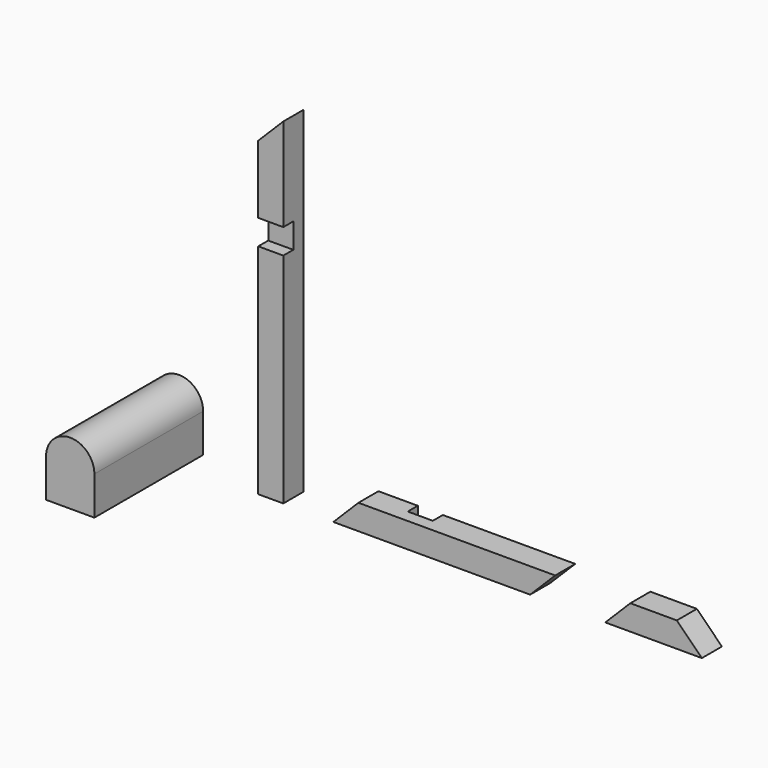
from build123d import *

# Parameters (mm, degrees)
F1_DEPTH  = 482.6
F3_DEPTH  = 88.9
F4_W      = 88.9
F4_H      = 88.9
F5_DEPTH  = 44.45
F7_DEPTH  = 88.9
F8_W      = 88.9
F8_H      = 88.9
F9_DEPTH  = 44.45
F11_DEPTH = 88.9


with BuildPart() as f1:
    # F0 (on Front) → F1 (new body)
    with BuildSketch(Plane.XZ):
        with BuildLine():
            Line((-781.05, 136.525), (-781.05, 0))
            Line((-781.05, 0), (-609.6, 0))
            Line((-609.6, 0), (-609.6, 136.525))
            ThreePointArc((-609.6, 136.525), (-695.325, 222.25), (-781.05, 136.525))
        make_face()
    extrude(amount=F1_DEPTH)


with BuildPart() as f3:
    # F2 (on Front) → F3 (new body)
    with BuildSketch(Plane.XZ):
        Polygon((-342.9, 1104.9), (-342.9, 0), (-254, 0), (-254, 1193.8), align=None)
    extrude(amount=F3_DEPTH)

    # F4 (on face) → F5 (cut)
    with BuildSketch(Plane.XZ.offset(88.9)):
        with Locations((-298.45, 819.15)):
            Rectangle(F4_W, F4_H)
    extrude(amount=-F5_DEPTH, mode=Mode.SUBTRACT)


with BuildPart() as f7:
    # F6 (on Front) → F7 (new body)
    with BuildSketch(Plane.XZ):
        Polygon((12.7, 88.9), (-76.2, 0), (622.3, 0), (711.2, 88.9), align=None)
    extrude(amount=F7_DEPTH)

    # F8 (on face) → F9 (cut)
    with BuildSketch(Plane(origin=(0, 0, 0), x_dir=(-1, 0, 0), z_dir=(0, 1, 0))):
        with Locations((-196.85, 44.45)):
            Rectangle(F8_W, F8_H)
    extrude(amount=-F9_DEPTH, mode=Mode.SUBTRACT)


with BuildPart() as f11:
    # F10 (on Front) → F11 (new body)
    with BuildSketch(Plane.XZ):
        Polygon((977.993183, 88.9), (889.093183, 0), (1231.993183, 0), (1143.093183, 88.9), align=None)
    extrude(amount=F11_DEPTH)


solid = Compound([f1.part, f3.part, f7.part, f11.part])
